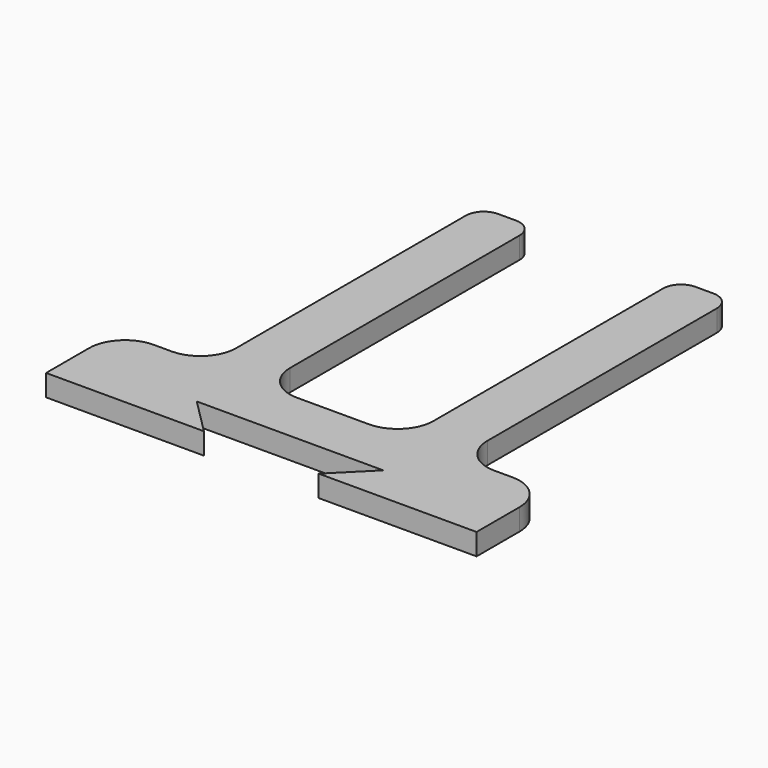
from build123d import *

# Parameters (mm, degrees)
F1_DEPTH = 6


with BuildPart() as f1:
    # F0 (on Top) → F1 (new body)
    with BuildSketch(Plane.XY):
        with BuildLine():
            Line((36, -30.894736), (80, -30.894736))
            Line((80, -30.894736), (80, -15.894736))
            ThreePointArc((80, -15.894736), (77.071068, -8.823668), (70, -5.894736))
            Line((70, -5.894736), (65, -5.894736))
            ThreePointArc((65, -5.894736), (57.928932, -2.965804), (55, 4.105264))
            Line((55, 4.105264), (55, 84.105264))
            ThreePointArc((55, 84.105264), (53.535534, 87.640798), (50, 89.105264))
            Line((50, 89.105264), (45, 89.105264))
            ThreePointArc((45, 89.105264), (41.464466, 87.640798), (40, 84.105264))
            Line((40, 84.105264), (40, 4.105264))
            ThreePointArc((40, 4.105264), (37.071068, -2.965804), (30, -5.894736))
            Line((30, -5.894736), (10, -5.894736))
            ThreePointArc((10, -5.894736), (2.928932, -2.965804), (0, 4.105264))
            Line((0, 4.105264), (0, 84.105264))
            ThreePointArc((0, 84.105264), (-1.464466, 87.640798), (-5, 89.105264))
            Line((-5, 89.105264), (-10, 89.105264))
            ThreePointArc((-10, 89.105264), (-13.535534, 87.640798), (-15, 84.105264))
            Line((-15, 84.105264), (-15, 4.105264))
            ThreePointArc((-15, 4.105264), (-17.928932, -2.965804), (-25, -5.894736))
            Line((-25, -5.894736), (-30, -5.894736))
            ThreePointArc((-30, -5.894736), (-37.071068, -8.823668), (-40, -15.894736))
            Line((-40, -15.894736), (-40, -30.894736))
            Line((-40, -30.894736), (4, -30.894736))
            Line((4, -30.894736), (-6, -20.894736))
            Line((-6, -20.894736), (20, -20.894736))
            Line((20, -20.894736), (46, -20.894736))
            Line((46, -20.894736), (36, -30.894736))
        make_face()
    extrude(amount=F1_DEPTH)


solid = f1.part
